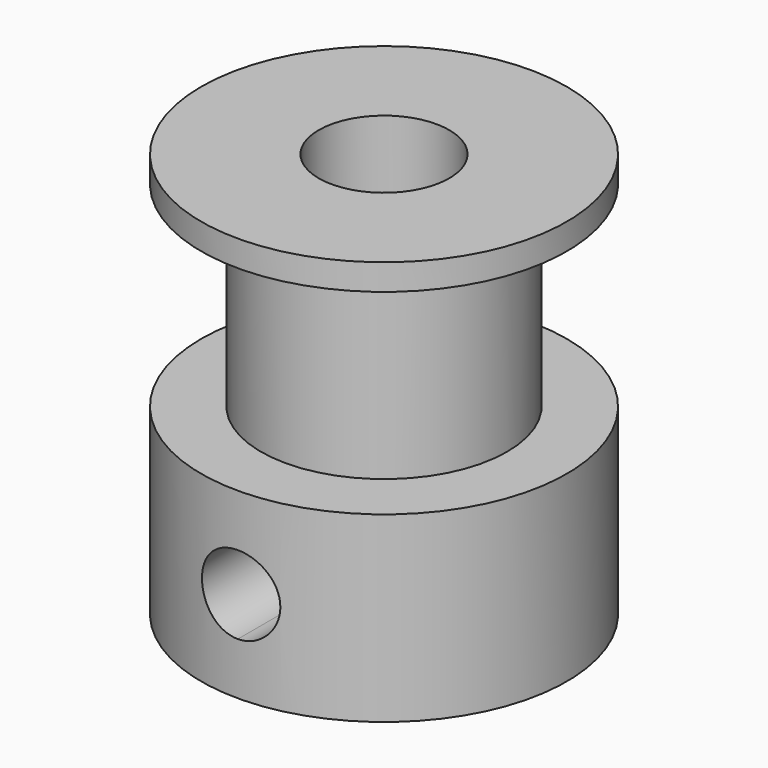
from build123d import *

# Parameters (mm, degrees)
F3_DEPTH = 7.0009987
F4_DEPTH = 25.4


with BuildPart() as f1:
    # F0 (on Front) → F1 (revolve)
    with BuildSketch(Plane.XZ):
        Polygon((0, 7.0000114), (0, 0), (4.49999862, 0), (4.49999862, 15.49999948), (0, 15.49999948), (0, 14.5000218), (2.286, 14.5000218), (2.286, 7.0000114), align=None)
    revolve(axis=Axis((6.9999987, 0, 7.74999974), (0, 0, 1)))

    # F2 (on Front) → F3 (cut, through all)
    with BuildSketch(Plane.XZ):
        with BuildLine():
            Line((7.00024, 4.9995884903), (7.00024, 1.9995944903))
            ThreePointArc((7.00024, 1.9995944903), (8.0608980505, 2.4389334398), (8.500237, 3.4995914903))
            ThreePointArc((8.500237, 3.4995914903), (8.0608980505, 4.5602495407), (7.00024, 4.9995884903))
        make_face()
        with BuildLine():
            ThreePointArc((7.00024, 4.9995884903), (5.500243, 3.4995914903), (7.00024, 1.9995944903))
            Line((7.00024, 1.9995944903), (7.00024, 4.9995884903))
        make_face()
    extrude(amount=-F3_DEPTH, mode=Mode.SUBTRACT)

    # F2 (on Front) → F4 (cut)
    with BuildSketch(Plane.XZ):
        with BuildLine():
            ThreePointArc((7.00024, 4.9995884903), (5.500243, 3.4995914903), (7.00024, 1.9995944903))
            Line((7.00024, 1.9995944903), (7.00024, 4.9995884903))
        make_face()
        with BuildLine():
            Line((7.00024, 4.9995884903), (7.00024, 1.9995944903))
            ThreePointArc((7.00024, 1.9995944903), (8.0608980505, 2.4389334398), (8.500237, 3.4995914903))
            ThreePointArc((8.500237, 3.4995914903), (8.0608980505, 4.5602495407), (7.00024, 4.9995884903))
        make_face()
    extrude(amount=F4_DEPTH, mode=Mode.SUBTRACT)


solid = f1.part
